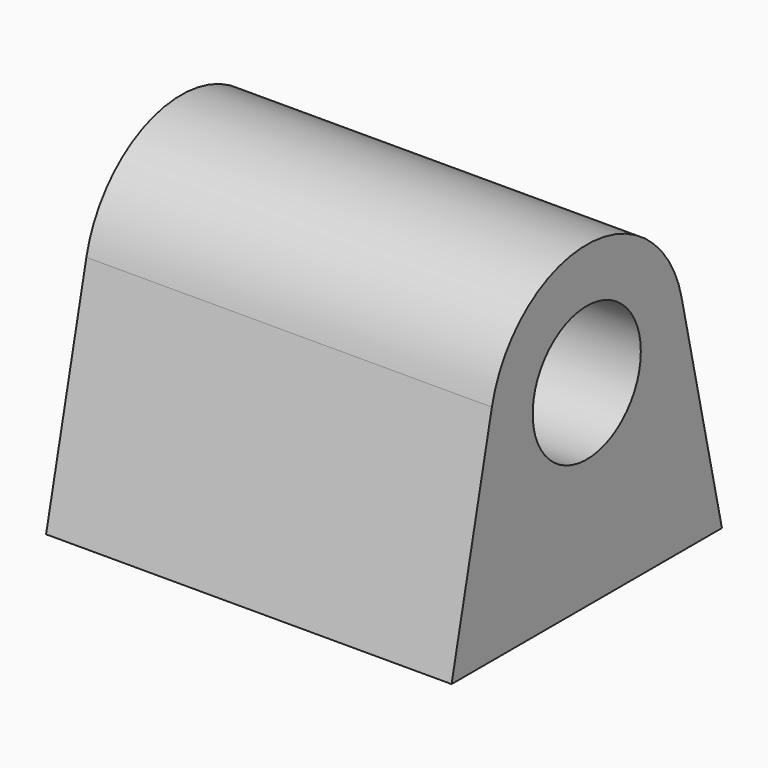
from build123d import *

# Parameters (mm, degrees)
F1_DEPTH = 600
F2_R     = 100
F3_DEPTH = 500


with BuildPart() as f1:
    # F0 (on Right) → F1 (new body)
    with BuildSketch(Plane.YZ):
        with BuildLine():
            Line((250, 0), (175.481897, 330.558985))
            ThreePointArc((175.481897, 330.558985), (0, 470.885545), (-175.481897, 330.558985))
            Line((-175.481897, 330.558985), (-250, 0))
            Line((-250, 0), (250, 0))
        make_face()
    extrude(amount=F1_DEPTH)

    # F2 (on face) → F3 (cut)
    with BuildSketch(Plane.YZ.offset(600)):
        with Locations((0, 291)):
            Circle(F2_R)
    extrude(amount=-F3_DEPTH, mode=Mode.SUBTRACT)


solid = f1.part
